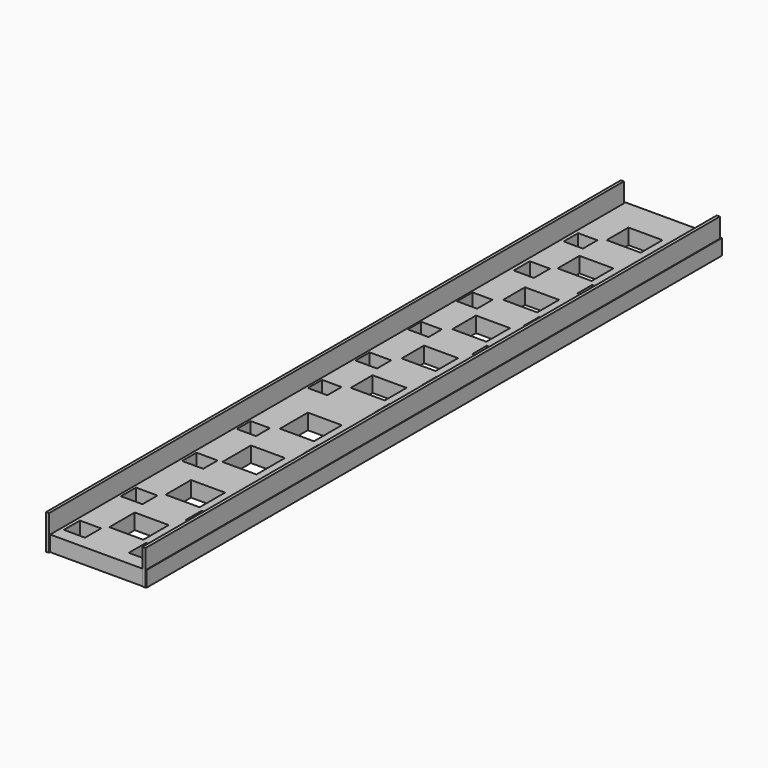
from build123d import *

# Parameters (mm, degrees)
F0_W     = 13.074241
F0_H     = 94.193969
F0_W_2   = 2.772734
F0_H_2   = 2.638768
F0_W_3   = 2.816748
F0_H_3   = 2.462851
F0_W_4   = 2.767764
F0_H_4   = 2.35983
F0_W_5   = 4.457127
F0_H_5   = 4.159985
F0_H_6   = 4.159987
F0_W_6   = 2.510216
F0_H_7   = 2.259195
F0_W_7   = 2.54634
F0_H_8   = 2.325126
F0_H_9   = 4.663303
F0_H_10  = 4.562473
F0_H_11  = 3.565702
F0_W_8   = 2.992794
F0_H_12  = 2.814685
F0_W_9   = 2.481149
F0_H_13  = 2.474324
F0_W_10  = 2.581937
F0_H_14  = 2.295056
F0_W_11  = 2.870289
F0_W_12  = 2.812862
F0_H_15  = 2.324136
F0_W_13  = 2.721176
F0_H_16  = 2.166863
F0_W_14  = 2.620392
F0_H_17  = 2.519607
F0_H_18  = 3.660711
F0_H_19  = 3.862843
F0_W_15  = 2.633039
F0_H_20  = 2.633039
F0_W_16  = 2.51843
F0_H_21  = 2.364244
F0_H_22  = 3.565703
F0_W_17  = 2.904148
F0_H_23  = 2.471199
F0_W_18  = 3.174707
F0_H_24  = 2.368433
F0_W_19  = 2.771571
F0_H_25  = 2.469215
F0_W_20  = 2.967037
F0_H_26  = 2.430499
F0_W_21  = 2.61249
F0_H_27  = 2.569832
F1_DEPTH = 2.032
F2_W     = 0.389233
F2_H     = 94.105582
F2_W_2   = 0.415065
F2_H_2   = 94.00139
F3_DEPTH = 4.572


with BuildPart() as f1:
    # F0 (on Top) → F1 (new body)
    with BuildSketch(Plane.XY):
        with Locations((-29.882617, 9.551766)):
            Rectangle(F0_W, F0_H)
        with Locations((-34.133058, -34.544973)):
            Rectangle(F0_W_2, F0_H_2, mode=Mode.SUBTRACT)
        with Locations((-34.199076, -25.177347)):
            Rectangle(F0_W_3, F0_H_3, mode=Mode.SUBTRACT)
        with Locations((-34.223568, -15.219573)):
            Rectangle(F0_W_4, F0_H_4, mode=Mode.SUBTRACT)
        with Locations((-30.031188, -30.413814)):
            Rectangle(F0_W_5, F0_H_5, mode=Mode.SUBTRACT)
        with Locations((-30.031188, -21.202417)):
            Rectangle(F0_W_5, F0_H_6, mode=Mode.SUBTRACT)
        with Locations((-34.39744, -6.244165)):
            Rectangle(F0_W_6, F0_H_7, mode=Mode.SUBTRACT)
        with Locations((-34.379378, 5.415873)):
            Rectangle(F0_W_7, F0_H_8, mode=Mode.SUBTRACT)
        with Locations((-30.031188, -11.648393)):
            Rectangle(F0_W_5, F0_H_9, mode=Mode.SUBTRACT)
        with Locations((-30.031188, -2.281236)):
            Rectangle(F0_W_5, F0_H_10, mode=Mode.SUBTRACT)
        with Locations((-30.031188, 8.808911)):
            Rectangle(F0_W_5, F0_H_11, mode=Mode.SUBTRACT)
        with Locations((-25.660809, -34.281095)):
            Rectangle(F0_W_8, F0_H_12, mode=Mode.SUBTRACT)
        with Locations((-25.660809, -25.089389)):
            Rectangle(F0_W_8, F0_H_2, mode=Mode.SUBTRACT)
        with Locations((-25.457825, -15.217207)):
            Rectangle(F0_W_9, F0_H_13, mode=Mode.SUBTRACT)
        with Locations((-25.647538, -6.118654)):
            Rectangle(F0_W_10, F0_H_14, mode=Mode.SUBTRACT)
        with Locations((-25.503362, 5.490877)):
            Rectangle(F0_W_11, F0_H_8, mode=Mode.SUBTRACT)
        with Locations((-34.246117, 13.206795)):
            Rectangle(F0_W_12, F0_H_15, mode=Mode.SUBTRACT)
        with Locations((-34.430865, 21.862716)):
            Rectangle(F0_W_13, F0_H_16, mode=Mode.SUBTRACT)
        with Locations((-34.430865, 30.051447)):
            Rectangle(F0_W_14, F0_H_17, mode=Mode.SUBTRACT)
        with Locations((-30.031188, 17.188502)):
            Rectangle(F0_W_5, F0_H_18, mode=Mode.SUBTRACT)
        with Locations((-30.031188, 25.597425)):
            Rectangle(F0_W_5, F0_H_19, mode=Mode.SUBTRACT)
        with Locations((-34.155721, 39.043644)):
            Rectangle(F0_W_15, F0_H_20, mode=Mode.SUBTRACT)
        with Locations((-34.239542, 47.121396)):
            Rectangle(F0_W_16, F0_H_21, mode=Mode.SUBTRACT)
        with Locations((-30.031188, 33.768827)):
            Rectangle(F0_W_5, F0_H_11, mode=Mode.SUBTRACT)
        with Locations((-30.031188, 42.683085)):
            Rectangle(F0_W_5, F0_H_22, mode=Mode.SUBTRACT)
        with Locations((-30.031188, 50.705915)):
            Rectangle(F0_W_5, F0_H_22, mode=Mode.SUBTRACT)
        with Locations((-25.486433, 13.164537)):
            Rectangle(F0_W_17, F0_H_23, mode=Mode.SUBTRACT)
        with Locations((-25.637428, 21.812324)):
            Rectangle(F0_W_18, F0_H_24, mode=Mode.SUBTRACT)
        with Locations((-25.637428, 30.076643)):
            Rectangle(F0_W_19, F0_H_25, mode=Mode.SUBTRACT)
        with Locations((-25.73516, 39.043646)):
            Rectangle(F0_W_20, F0_H_26, mode=Mode.SUBTRACT)
        with Locations((-25.557887, 47.07)):
            Rectangle(F0_W_21, F0_H_27, mode=Mode.SUBTRACT)
    extrude(amount=F1_DEPTH)

    # F2 (on Top) → F3 (join)
    with BuildSketch(Plane.XY):
        with Locations((-36.159336, 9.322742)):
            Rectangle(F2_W, F2_H)
        with Locations((-23.633422, 9.399328)):
            Rectangle(F2_W_2, F2_H_2)
    extrude(amount=F3_DEPTH)


solid = f1.part
